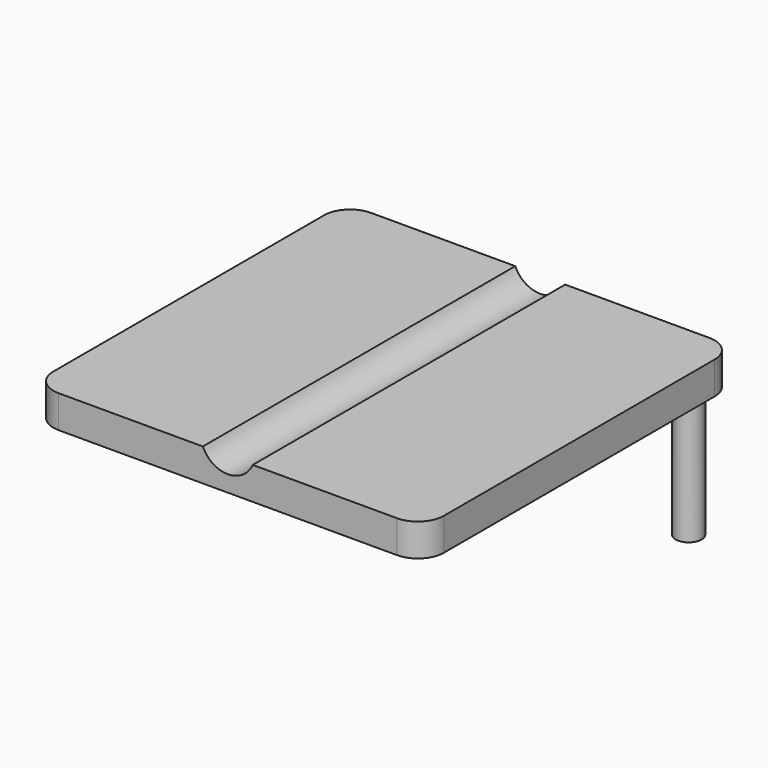
from build123d import *

# Parameters (mm, degrees)
F0_W     = 76.2
F0_H     = 76.2
F1_DEPTH = 3.175
F2_R     = 5.08
F4_DEPTH = 76.201
F5_R     = 2.54
F6_DEPTH = 25.4


with BuildPart() as f1:
    # F0 (on Top) → F1 (new body, symmetric)
    with BuildSketch(Plane.XY):
        Rectangle(F0_W, F0_H)
    extrude(amount=F1_DEPTH, both=True)

    # F2
    f2_edges = [f1.edges().sort_by_distance(p)[0] for p in [
        (38.1, -38.1, 0),
        (38.1, 38.1, 0),
        (-38.1, 38.1, 0),
        (-38.1, -38.1, 0),
    ]]
    fillet(f2_edges, radius=F2_R)

    # F3 (on face) → F4 (cut, through all)
    with BuildSketch(Plane.XZ.offset(38.1)):
        with BuildLine():
            Line((4.875244, 3.175), (-4.869716, 3.175))
            ThreePointArc((-4.869716, 3.175), (0.002764, -1e-06), (4.875244, 3.175))
        make_face()
    extrude(amount=-F4_DEPTH, mode=Mode.SUBTRACT)

    # F5 (on face) → F6 (join)
    with BuildSketch(Plane(origin=(0, 0, -3.175), x_dir=(1, 0, 0), z_dir=(0, 0, -1))):
        with Locations((33.02, -33.02)):
            Circle(F5_R)
    extrude(amount=F6_DEPTH)


solid = f1.part
